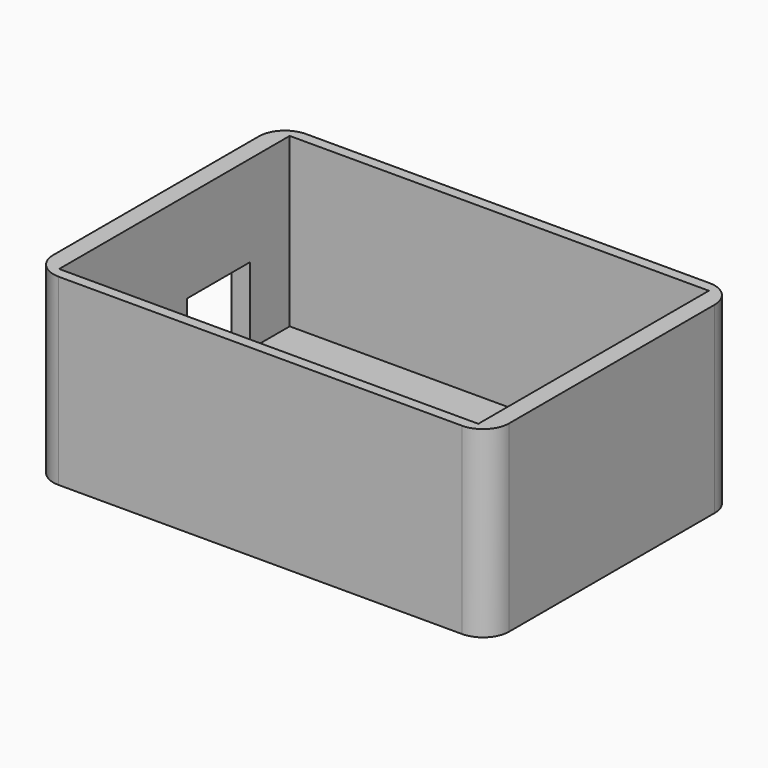
from build123d import *

# Parameters (mm, degrees)
F0_W     = 87
F0_H     = 59
F1_DEPTH = 35
F2_W     = 40
F2_H     = 27.5
F3_DEPTH = 32
F4_R     = 5
F5_W     = 15
F5_H     = 12.435101904
F5_H_2   = 2.1998170093
F6_DEPTH = 25


with BuildPart() as f1:
    # F0 (on Top) → F1 (new body)
    with BuildSketch(Plane.XY):
        Rectangle(F0_W, F0_H)
    extrude(amount=F1_DEPTH)

    # F2 (on face) → F3 (cut)
    with BuildSketch(Plane.XY.offset(35)):
        with Locations((-20, -13.75)):
            Rectangle(F2_W, F2_H)
        with Locations((20, 13.75)):
            Rectangle(F2_W, F2_H)
        with Locations((20, -13.75)):
            Rectangle(F2_W, F2_H)
        with Locations((-20, 13.75)):
            Rectangle(F2_W, F2_H)
    extrude(amount=-F3_DEPTH, mode=Mode.SUBTRACT)

    # F4
    f4_edges = [f1.edges().sort_by_distance(p)[0] for p in [
        (-43.5, -29.5, 17.5),
        (43.5, -29.5, 17.5),
        (43.5, 29.5, 17.5),
        (-43.5, 29.5, 17.5),
    ]]
    fillet(f4_edges, radius=F4_R)

    # F5 (on face) → F6 (cut)
    with BuildSketch(Plane(origin=(-43.5, 0, 0), x_dir=(0, -1, 0), z_dir=(-1, 0, 0))):
        with Locations((-10.5, 11.4173679613)):
            Rectangle(F5_W, F5_H)
        with Locations((-10.5, 4.0999085046)):
            Rectangle(F5_W, F5_H_2)
    extrude(amount=-F6_DEPTH, mode=Mode.SUBTRACT)


solid = f1.part
